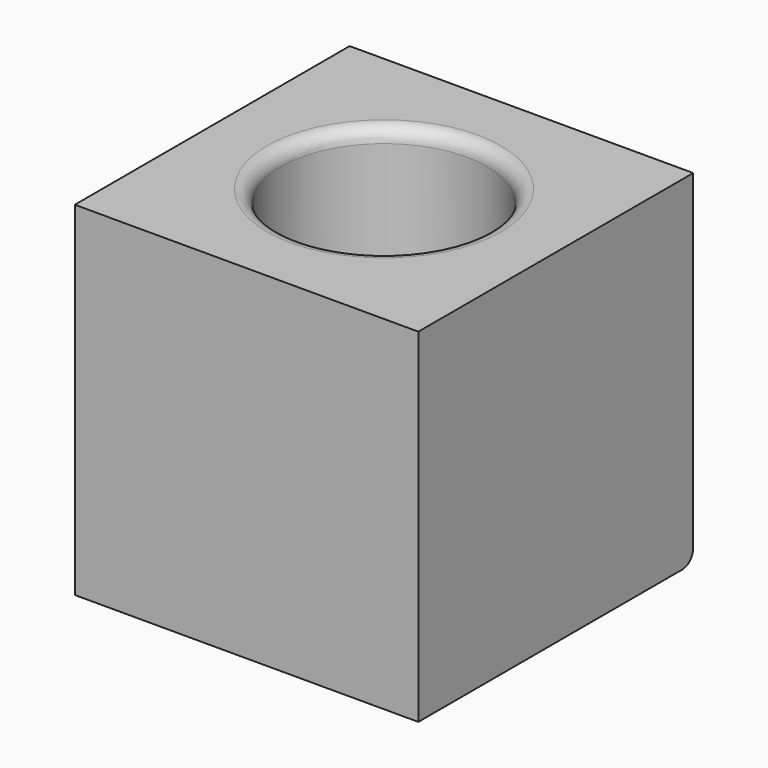
from build123d import *

# Parameters (mm, degrees)
F0_W     = 127
F0_H     = 127
F1_DEPTH = 127
F2_R     = 38.1
F3_DEPTH = 127.001
F4_R     = 5.08


with BuildPart() as f1:
    # F0 (on Front) → F1 (new body)
    with BuildSketch(Plane.XZ):
        with Locations((-2e-06, -21.783345)):
            Rectangle(F0_W, F0_H)
    extrude(amount=F1_DEPTH)

    # F2 (on face) → F3 (cut, through all)
    with BuildSketch(Plane(origin=(0, 0, -85.283345), x_dir=(1, 0, 0), z_dir=(0, 0, -1))):
        with Locations((-2e-06, 63.5)):
            Circle(F2_R)
    extrude(amount=-F3_DEPTH, mode=Mode.SUBTRACT)

    # F4
    f4_edges = [f1.edges().sort_by_distance(p)[0] for p in [
        (-38.100002, -63.5, -85.283345),
        (38.099998, -63.5, -21.783345),
        (-38.100002, -63.5, 41.716655),
        (-2e-06, 0, -85.283345),
    ]]
    fillet(f4_edges, radius=F4_R)


solid = f1.part
